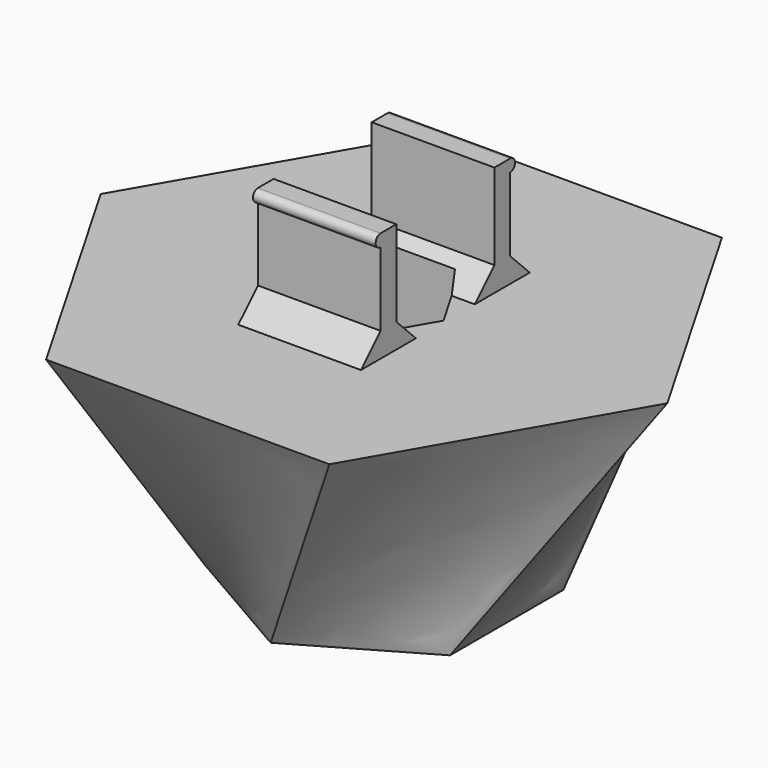
from build123d import *

# Parameters (mm, degrees)
SKETCH004_R     = 1.25
POCKET_DEPTH    = 10.001
PAD_DEPTH       = 2.5
POCKET005_DEPTH = 12


with BuildPart() as part:
    # Sketch → AdditiveLoft section 0
    with BuildSketch(Plane.XY):
        Polygon((0, 5.773503), (-5, 2.886751), (-5, -2.886751), (0, -5.773503), (5, -2.886751), (5, 2.886751), align=None)
    # Sketch001 (on DatumPlane) → AdditiveLoft section 1
    with BuildSketch(Plane.XY.offset(10)):
        Polygon((-5.773503, 10), (-11.547005, 0), (-5.773503, -10), (5.773503, -10), (11.547005, 0), (5.773503, 10), align=None)
    loft()

    # Sketch004 → Pocket (cut, through all)
    with BuildSketch(Plane.XY):
        Circle(SKETCH004_R)
    extrude(amount=POCKET_DEPTH, mode=Mode.SUBTRACT)

    # Sketch020 (on DatumPlane) → Pad (join, symmetric)
    with BuildSketch(Plane(origin=(0, 0, 10), x_dir=(0, 1, 0), z_dir=(1, 0, 0))):
        with BuildLine():
            ThreePointArc((-3.3, 4.5), (-3.55, 4.25), (-3.3, 4))
            Line((-3.3, 4), (-3.3, 1))
            Line((-3.3, 1), (-4.3, 0))
            Line((-4.3, 0), (-1.5, 0))
            Line((-1.5, 0), (-2.5, 1))
            Line((-2.5, 4.5), (-2.5, 1))
            Line((-3.3, 4.5), (-2.5, 4.5))
        make_face()
        with BuildLine():
            Line((4.3, 0), (1.5, 0))
            Line((2.5, 1), (1.5, 0))
            Line((2.5, 4.5), (2.5, 1))
            Line((3.3, 4.5), (2.5, 4.5))
            ThreePointArc((3.3, 4), (3.55, 4.25), (3.3, 4.5))
            Line((3.3, 1), (3.3, 4))
            Line((4.3, 0), (3.3, 1))
        make_face()
    extrude(amount=PAD_DEPTH, both=True)

    # Sketch017 (on DatumPlane) → Pocket005 (cut)
    with BuildSketch(Plane.XY.offset(14.5)):
        Polygon((1.212436, 2.1), (-1.212436, 2.1), (-2.424871, 0), (-1.212436, -2.1), (1.212436, -2.1), (2.424871, 0), align=None)
    extrude(amount=-POCKET005_DEPTH, mode=Mode.SUBTRACT)


solid = part.part
